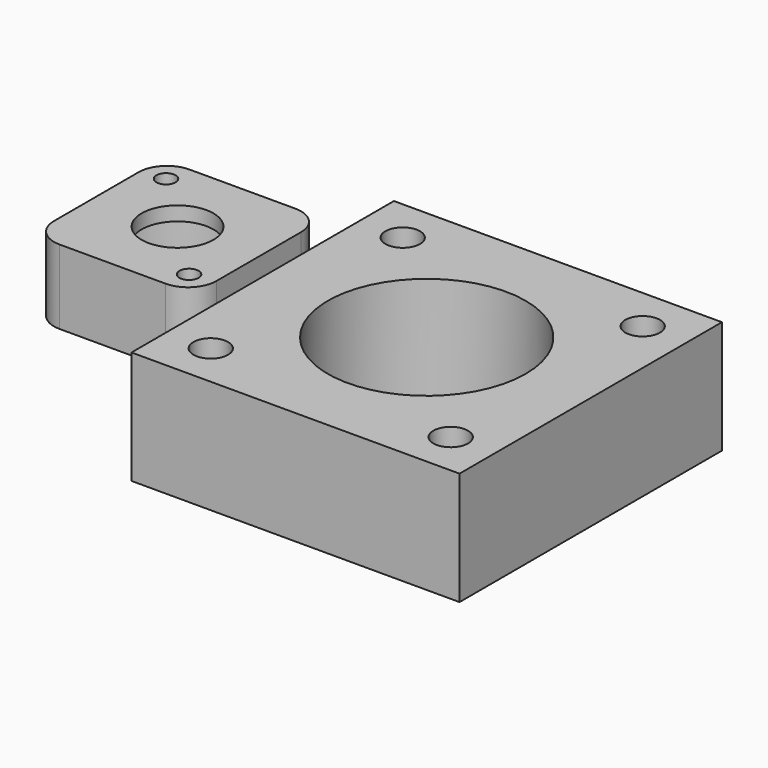
from build123d import *

# Parameters (mm, degrees)
F0_W     = 73.66
F0_H     = 73.66
F0_R     = 2.159
F0_R_2   = 22.225
F1_DEPTH = 25.4
F0_W_2   = 36.4735363481
F0_H_2   = 36.4735363481
F0_R_3   = 2.15265
F0_R_4   = 14.2875
F0_R_5   = 8.0645
F2_DEPTH = 16.7005
F3_R     = 3.8862
F4_DEPTH = 6.35
F8_R     = 6.35


with BuildPart() as f1:
    # F0 (on Top) → F1 (new body)
    with BuildSketch(Plane.XY):
        with Locations((89.0728744893, 115.57)):
            Rectangle(F0_W, F0_H)
        with Locations((62.1321061261, 88.6292316368)):
            Circle(F0_R, mode=Mode.SUBTRACT)
        with Locations((116.0136428525, 88.6292316368)):
            Circle(F0_R, mode=Mode.SUBTRACT)
        with Locations((89.0728744893, 115.57)):
            Circle(F0_R_2, mode=Mode.SUBTRACT)
        with Locations((62.1321061261, 142.5107683632)):
            Circle(F0_R, mode=Mode.SUBTRACT)
        with Locations((116.0136428525, 142.5107683632)):
            Circle(F0_R, mode=Mode.SUBTRACT)
    extrude(amount=F1_DEPTH)

    # F3 (on face) → F4 (cut)
    with BuildSketch(Plane.XY.offset(25.4)):
        with Locations((62.1321061261, 142.5107683632)):
            Circle(F3_R)
        with Locations((62.1321061261, 88.6292316368)):
            Circle(F3_R)
        with Locations((116.0136428525, 88.6292316368)):
            Circle(F3_R)
        with Locations((116.0136428525, 142.5107683632)):
            Circle(F3_R)
    extrude(amount=-F4_DEPTH, mode=Mode.SUBTRACT)


with BuildPart() as f2:
    # F0 (on Top) → F2 (new body)
    with BuildSketch(Plane.XY):
        with Locations((18.236768174, 134.163231826)):
            Rectangle(F0_W_2, F0_H_2)
        with Locations((31.1458863481, 121.2541136519)):
            Circle(F0_R_3, mode=Mode.SUBTRACT)
        with Locations((18.236768174, 134.163231826)):
            Circle(F0_R_4, mode=Mode.SUBTRACT)
        with Locations((5.32765, 147.07235)):
            Circle(F0_R_3, mode=Mode.SUBTRACT)
        with Locations((18.236768174, 134.163231826)):
            Circle(F0_R_4)
        with Locations((18.236768174, 134.163231826)):
            Circle(F0_R_5, mode=Mode.SUBTRACT)
    extrude(amount=F2_DEPTH)

    # F6 (on line) → F7 (revolve, cut)
    with BuildSketch(Plane(origin=(-57.963231826, 57.963231826, 0), x_dir=(-0.7071067812, -0.7071067812, 0), z_dir=(-0.7071067812, 0.7071067812, 0))):
        Polygon((-122.0505734528, 0), (-107.7630734528, 0), (-107.7630734528, 16.7005), (-115.8275734528, 16.7005), (-115.8275734528, 13.5255), (-122.0505734528, 13.5255), (-122.0505734528, 3.0099), (-122.9776734528, 3.0099), (-122.9776734528, 1.5875), (-122.0505734528, 1.5875), align=None)
    revolve(axis=Axis((18.236768174, 134.163231826, 8.35025), (0, 0, 1)), mode=Mode.SUBTRACT)

    # F8
    f8_edges = [f2.edges().sort_by_distance(p)[0] for p in [
        (0, 152.4, 8.35025),
        (36.473536, 152.4, 8.35025),
        (36.473536, 115.926464, 8.35025),
        (0, 115.926464, 8.35025),
    ]]
    fillet(f8_edges, radius=F8_R)


solid = Compound([f1.part, f2.part])
